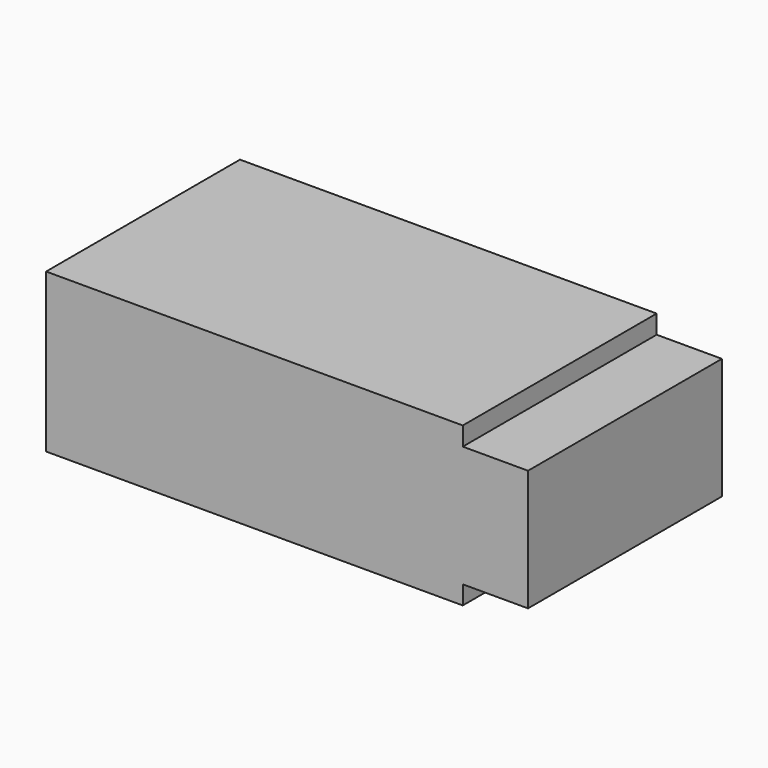
from build123d import *

# Parameters (mm, degrees)
F0_W     = 44.7
F0_H     = 26
F1_DEPTH = 17
F2_START = 2
F0_W_2   = 7
F2_DEPTH = 13


with BuildPart() as f1:
    # F0 (on Top) → F1 (new body)
    with BuildSketch(Plane.XY):
        Rectangle(F0_W, F0_H)
    extrude(amount=F1_DEPTH)

    # F0 (on Top) → F2 (join)
    with BuildSketch(Plane.XY.offset(F2_START)):
        with Locations((25.85, 0)):
            Rectangle(F0_W_2, F0_H)
    extrude(amount=F2_DEPTH)


solid = f1.part
